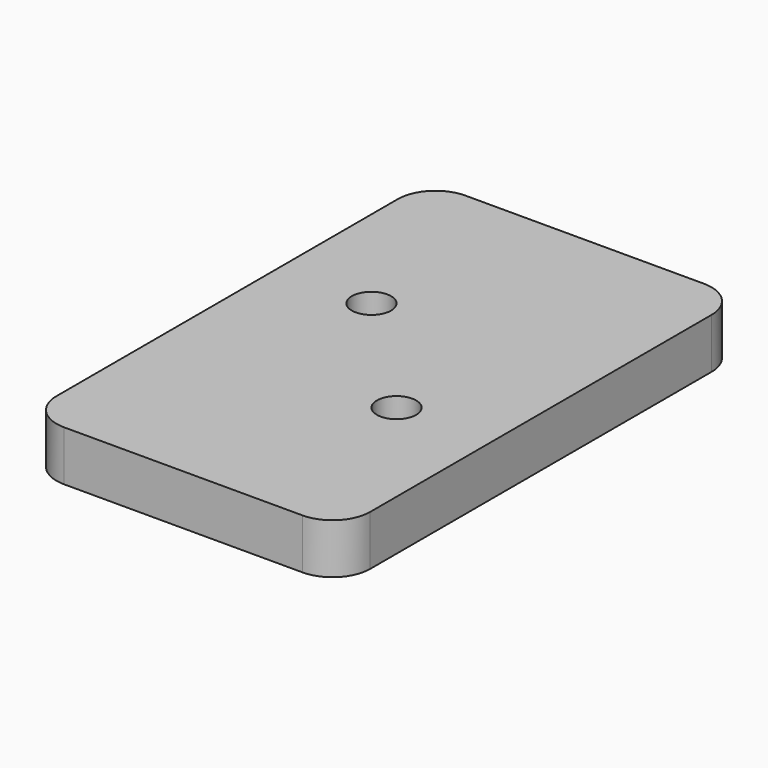
from build123d import *

# Parameters (mm, degrees)
SKETCH_W  = 25
SKETCH_H  = 40
SKETCH_R  = 1.5625
PAD_DEPTH = 4
FILLET_R  = 3


with BuildPart() as part:
    # Sketch → Pad (new body)
    with BuildSketch(Plane.XY):
        with Locations((25, 20)):
            Rectangle(SKETCH_W, SKETCH_H)
        with Locations((20, 25)):
            Circle(SKETCH_R, mode=Mode.SUBTRACT)
        with Locations((30, 15)):
            Circle(SKETCH_R, mode=Mode.SUBTRACT)
    extrude(amount=PAD_DEPTH)

    # Fillet
    fillet_edges = [part.edges().sort_by_distance(p)[0] for p in [
        (12.5, 0, 2),
        (12.5, 40, 2),
        (37.5, 40, 2),
        (37.5, 0, 2),
    ]]
    fillet(fillet_edges, radius=FILLET_R)


solid = part.part
